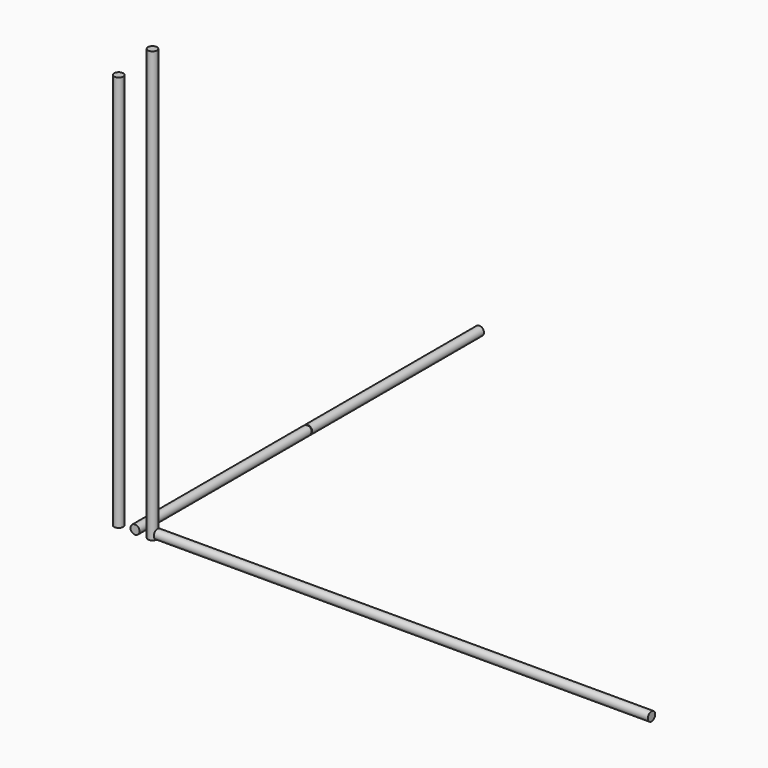
from build123d import *

# Parameters (mm, degrees)
F0_R     = 4
F1_DEPTH = 380
F2_R     = 4
F3_DEPTH = 380
F4_R     = 4
F5_DEPTH = 436
F6_DEPTH = 350
F8_R     = 4
F8_R_2   = 3.4452570005
F9_DEPTH = 0.5


with BuildPart() as f1:
    # F0 (on Top) → F1 (new body)
    with BuildSketch(Plane.XY):
        with Locations((-3.9996842142, 4.0259968746)):
            Circle(F0_R)
    extrude(amount=F1_DEPTH)


with BuildPart() as f3:
    # F2 (on Front) → F3 (new body)
    with BuildSketch(Plane.XZ):
        with Locations((-16.2359386162, 4.0342601048)):
            Circle(F2_R)
    extrude(amount=-F3_DEPTH)

    # F8 (on offset) → F9 (cut, symmetric)
    with BuildSketch(Plane.XZ.offset(-190)):
        with Locations((-16.2359386162, 4.0342601048)):
            Circle(F8_R)
        with Locations((-16.2359386162, 4.0342601048)):
            Circle(F8_R_2, mode=Mode.SUBTRACT)
    extrude(amount=F9_DEPTH, both=True, mode=Mode.SUBTRACT)


with BuildPart() as f5:
    # F4 (on Right) → F5 (new body)
    with BuildSketch(Plane.YZ):
        with Locations((4.5656003058, 4.1295401752)):
            Circle(F4_R)
    extrude(amount=F5_DEPTH)


with BuildPart() as f6:
    # F0 (on Top) → F6 (new body)
    with BuildSketch(Plane.XY):
        with Locations((-33.8839329779, 4.0259968746)):
            Circle(F0_R)
    extrude(amount=F6_DEPTH)


solid = Compound([f1.part, f3.part, f5.part, f6.part])
